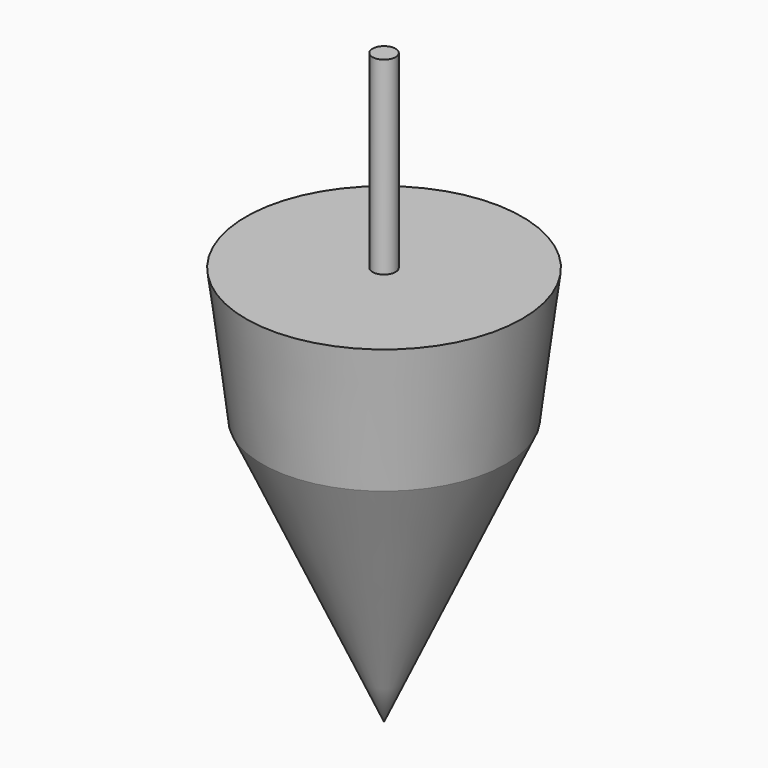
from build123d import *

# Parameters (mm, degrees)
F0_W = 1.188172
F0_H = 19.519934


with BuildPart() as f1:
    # F0 (on Front) → F1 (revolve)
    with BuildSketch(Plane.XZ):
        Polygon((10.186416, -19.046515), (22.747066, 8.451133), (24.444452, 22.199957), (11.374588, 22.199957), (10.186416, 22.199957), align=None)
        with Locations((10.780502, 31.959924)):
            Rectangle(F0_W, F0_H)
    revolve(axis=Axis((10.186416, 0, 1.576721), (0, 0, 1)))


solid = f1.part
